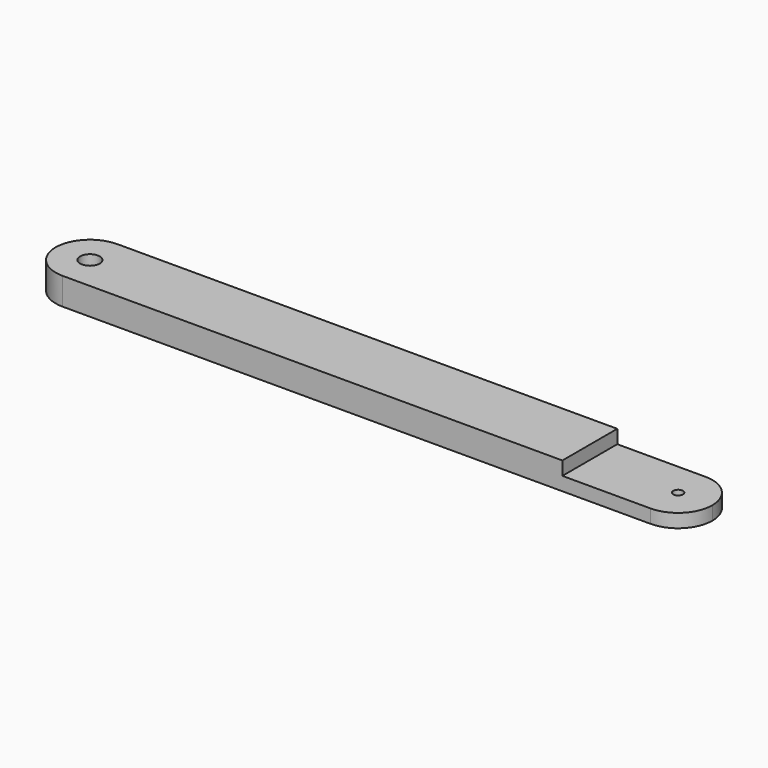
from build123d import *

# Parameters (mm, degrees)
F0_R     = 6.35
F1_DEPTH = 17.5768
F0_R_2   = 3.175
F2_DEPTH = 8.7884


with BuildPart() as f1:
    # F0 (on Top) → F1 (new body)
    with BuildSketch(Plane.XY):
        with BuildLine():
            ThreePointArc((0, -22.225), (15.715448, -15.715448), (22.225, 0))
            ThreePointArc((22.225, 0), (15.715448, 15.715448), (0, 22.225))
            ThreePointArc((0, 22.225), (-22.225, 0), (0, -22.225))
        make_face()
        Circle(F0_R, mode=Mode.SUBTRACT)
        with BuildLine():
            ThreePointArc((0, 22.225), (15.715448, 15.715448), (22.225, 0))
            ThreePointArc((22.225, 0), (15.715448, -15.715448), (0, -22.225))
            Line((0, -22.225), (323.85, -22.225))
            Line((323.85, -22.225), (323.85, 22.225))
            Line((323.85, 22.225), (0, 22.225))
        make_face()
    extrude(amount=F1_DEPTH)

    # F0 (on Top) → F2 (join)
    with BuildSketch(Plane.XY):
        with BuildLine():
            ThreePointArc((403.225, 0), (396.715448, 15.715448), (381, 22.225))
            ThreePointArc((381, 22.225), (358.775, 0), (381, -22.225))
            ThreePointArc((381, -22.225), (396.715448, -15.715448), (403.225, 0))
        make_face()
        with Locations((381, 0)):
            Circle(F0_R_2, mode=Mode.SUBTRACT)
        with BuildLine():
            Line((381, 22.225), (323.85, 22.225))
            Line((323.85, 22.225), (323.85, -22.225))
            Line((323.85, -22.225), (381, -22.225))
            ThreePointArc((381, -22.225), (358.775, 0), (381, 22.225))
        make_face()
    extrude(amount=F2_DEPTH)


solid = f1.part
